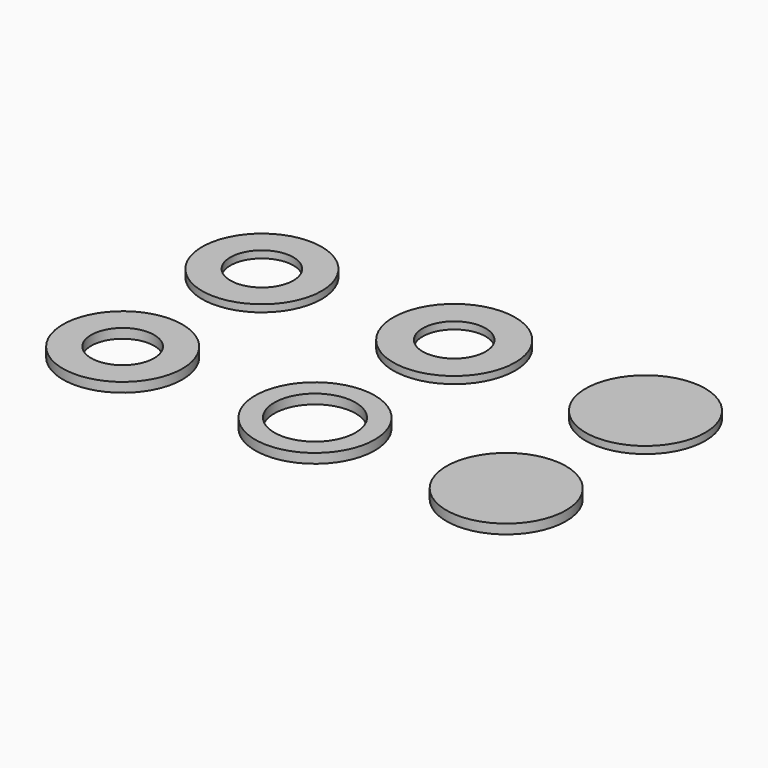
from build123d import *

# Parameters (mm, degrees)
F0_R      = 75
F0_R_2    = 39.5
F1_DEPTH  = 12
F2_R      = 75
F2_R_2    = 51
F3_DEPTH  = 12
F4_R      = 75
F4_R_2    = 39.5
F5_DEPTH  = 9
F6_R      = 75
F7_DEPTH  = 12
F8_R      = 76.5
F8_R_2    = 39.5
F9_DEPTH  = 9
F10_R     = 75
F11_DEPTH = 9


with BuildPart() as f1:
    # F0 (on Top) → F1 (new body)
    with BuildSketch(Plane.XY):
        with Locations((-188.484594, 0)):
            Circle(F0_R)
        with Locations((-188.484594, 0)):
            Circle(F0_R_2, mode=Mode.SUBTRACT)
    extrude(amount=F1_DEPTH)


with BuildPart() as f3:
    # F2 (on Top) → F3 (new body)
    with BuildSketch(Plane.XY):
        with Locations((52.712191, 0)):
            Circle(F2_R)
        with Locations((52.712191, 0)):
            Circle(F2_R_2, mode=Mode.SUBTRACT)
    extrude(amount=F3_DEPTH)


with BuildPart() as f5:
    # F4 (on Top) → F5 (new body)
    with BuildSketch(Plane.XY):
        with Locations((-188.484594, 218.26612)):
            Circle(F4_R)
        with Locations((-188.484594, 218.26612)):
            Circle(F4_R_2, mode=Mode.SUBTRACT)
    extrude(amount=F5_DEPTH)


with BuildPart() as f7:
    # F6 (on Top) → F7 (new body)
    with BuildSketch(Plane.XY):
        with Locations((292.574733, 0)):
            Circle(F6_R)
    extrude(amount=F7_DEPTH)


with BuildPart() as f9:
    # F8 (on Top) → F9 (new body)
    with BuildSketch(Plane.XY):
        with Locations((52.712191, 218.26612)):
            Circle(F8_R)
        with Locations((52.712191, 218.26612)):
            Circle(F8_R_2, mode=Mode.SUBTRACT)
    extrude(amount=F9_DEPTH)


with BuildPart() as f11:
    # F10 (on Top) → F11 (new body)
    with BuildSketch(Plane.XY):
        with Locations((292.574733, 218.26612)):
            Circle(F10_R)
    extrude(amount=F11_DEPTH)


solid = Compound([f1.part, f3.part, f5.part, f7.part, f9.part, f11.part])
